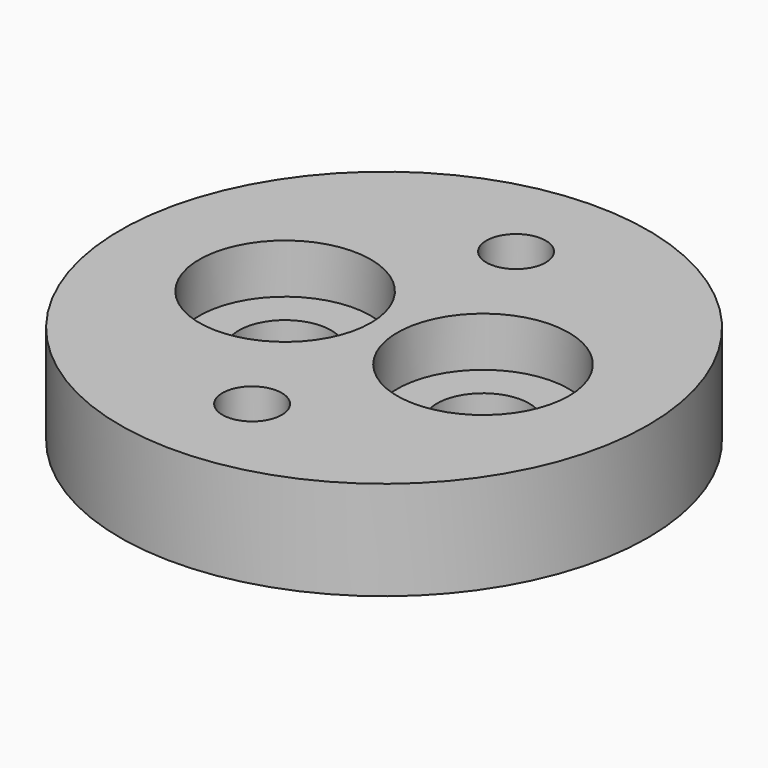
from build123d import *

# Parameters (mm, degrees)
SKETCH_R      = 16
SKETCH_R_2    = 2.8
SKETCH_R_3    = 3.5
PAD_DEPTH     = 3
SKETCH001_R   = 16
SKETCH001_R_2 = 5.2
SKETCH001_R_3 = 1.8
PAD001_DEPTH  = 3


with BuildPart() as pad:
    # Sketch → Pad (new body)
    with BuildSketch(Plane.XY):
        Circle(SKETCH_R)
        with Locations((-6, 0)):
            Circle(SKETCH_R_2, mode=Mode.SUBTRACT)
        with Locations((6, 0)):
            Circle(SKETCH_R_2, mode=Mode.SUBTRACT)
        with Locations((0, 10)):
            Circle(SKETCH_R_3, mode=Mode.SUBTRACT)
        with Locations((0, -10)):
            Circle(SKETCH_R_3, mode=Mode.SUBTRACT)
    extrude(amount=PAD_DEPTH)


with BuildPart() as fusion:
    # Sketch001 → Pad001 (new body)
    with BuildSketch(Plane.XY.offset(3)):
        Circle(SKETCH001_R)
        with Locations((-6, 0)):
            Circle(SKETCH001_R_2, mode=Mode.SUBTRACT)
        with Locations((6, 0)):
            Circle(SKETCH001_R_2, mode=Mode.SUBTRACT)
        with Locations((0, 10)):
            Circle(SKETCH001_R_3, mode=Mode.SUBTRACT)
        with Locations((0, -10)):
            Circle(SKETCH001_R_3, mode=Mode.SUBTRACT)
    extrude(amount=PAD001_DEPTH)

    # Fusion: union Pad
    add(pad.part)


solid = fusion.part
